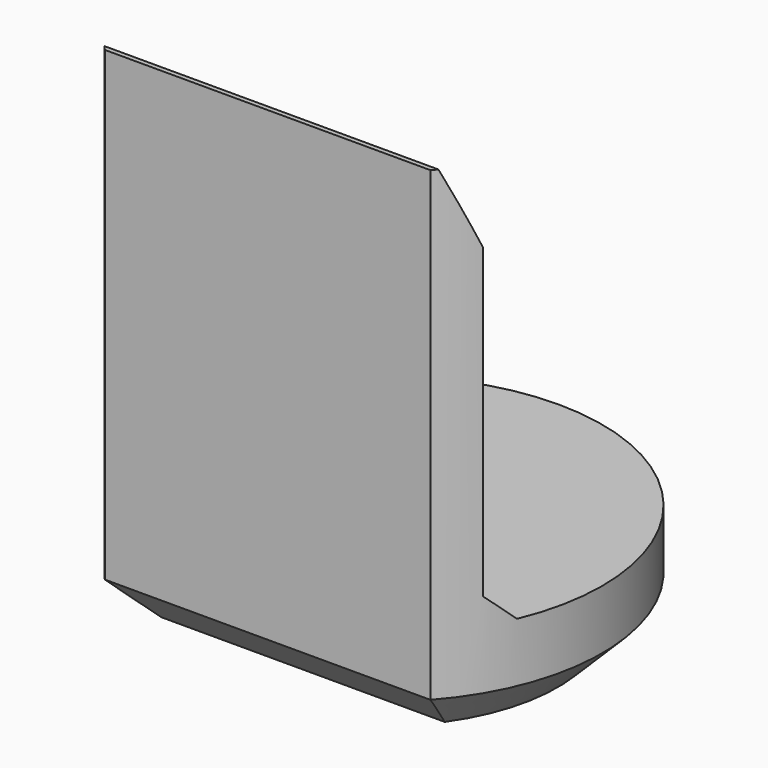
from build123d import *

# Parameters (mm, degrees)
PAD007_DEPTH         = 6.9
POCKET005_DEPTH      = 2.951
POCKET005_DEPTH_BACK = 2.951
CHAMFER008_SIZE      = 0.6


with BuildPart() as part:
    # Sketch018 → Pad007 (new body)
    with BuildSketch(Plane.XY):
        with BuildLine():
            ThreePointArc((2.2, -1.9653244007), (0, 2.95), (-2.2, -1.9653244007))
            Line((-2.2, -1.9653244007), (2.2, -1.9653244007))
        make_face()
    extrude(amount=PAD007_DEPTH)

    # Sketch019 → Pocket005 (cut, two sides)
    with BuildSketch(Plane.YZ) as pocket005_sk:
        Polygon((-1.9, 6.9), (-1.5, 5.9), (-1.5, 1.75), (-1.15, 1.4), (5, 1.4), (5, 6.9), align=None)
    extrude(amount=-POCKET005_DEPTH, mode=Mode.SUBTRACT)
    extrude(pocket005_sk.sketch, amount=POCKET005_DEPTH_BACK, mode=Mode.SUBTRACT)

    # Chamfer008
    chamfer008_edges = [part.edges().sort_by_distance(p)[0] for p in [
        (0, 2.95, 0),
        (0, -1.965324, 0),
    ]]
    chamfer(chamfer008_edges, length=CHAMFER008_SIZE)


with BuildPart() as part_1:
    # Body052 placement: moved
    add(part.part.moved(Location((0, 12, 0))))


solid = part_1.part
